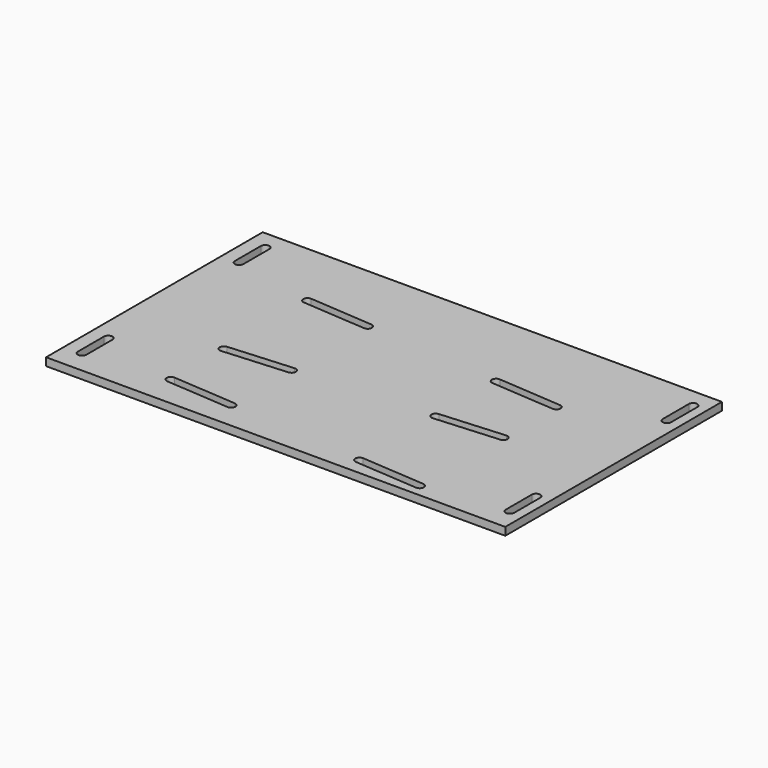
from build123d import *

# Parameters (mm, degrees)
F0_W     = 371.4496
F0_H     = 219.0496
F1_DEPTH = 6.35


with BuildPart() as f1:
    # F0 (on Top) → F1 (new body)
    with BuildSketch(Plane.XY):
        with Locations((185.7248, 109.5248)):
            Rectangle(F0_W, F0_H)
        with BuildLine():
            ThreePointArc((10.8585, 44.958), (14.2875, 48.387), (17.7165, 44.958))
            Line((17.7165, 44.958), (17.7165, 18.542))
            ThreePointArc((17.7165, 18.542), (14.2875, 15.113), (10.8585, 18.542))
            Line((10.8585, 18.542), (10.8585, 44.958))
        make_face(mode=Mode.SUBTRACT)
        with BuildLine():
            ThreePointArc((80.270947, 22.157711), (77.097911, 25.824853), (80.765053, 28.997889))
            Line((80.765053, 28.997889), (132.454053, 25.264089))
            ThreePointArc((132.454053, 25.264089), (134.717497, 24.17969), (135.636, 21.844))
            ThreePointArc((135.636, 21.844), (134.54269, 19.333503), (131.959947, 18.423911))
            Line((131.959947, 18.423911), (80.270947, 22.157711))
        make_face(mode=Mode.SUBTRACT)
        with BuildLine():
            ThreePointArc((80.764888, 75.791984), (77.097899, 78.965197), (80.271112, 82.632185))
            Line((80.271112, 82.632185), (131.960112, 86.36347))
            ThreePointArc((131.960112, 86.36347), (134.542751, 85.45381), (135.636, 82.94337))
            ThreePointArc((135.636, 82.94337), (134.71744, 80.607619), (132.453888, 79.523269))
            Line((132.453888, 79.523269), (80.764888, 75.791984))
        make_face(mode=Mode.SUBTRACT)
        with BuildLine():
            ThreePointArc((242.197619, 10.448191), (239.022791, 14.113781), (242.688381, 17.288609))
            Line((242.688381, 17.288609), (294.377381, 13.580209))
            ThreePointArc((294.377381, 13.580209), (296.641926, 12.496304), (297.561, 10.16))
            ThreePointArc((297.561, 10.16), (296.468304, 7.650074), (293.886619, 6.739791))
            Line((293.886619, 6.739791), (242.197619, 10.448191))
        make_face(mode=Mode.SUBTRACT)
        with BuildLine():
            Line((363.8042, 44.958), (363.8042, 18.542))
            ThreePointArc((363.8042, 18.542), (360.3752, 15.113), (356.9462, 18.542))
            Line((356.9462, 18.542), (356.9462, 44.958))
            ThreePointArc((356.9462, 44.958), (360.3752, 48.387), (363.8042, 44.958))
        make_face(mode=Mode.SUBTRACT)
        with BuildLine():
            ThreePointArc((242.689888, 87.483147), (239.022899, 90.65636), (242.196112, 94.323348))
            Line((242.196112, 94.323348), (293.885112, 98.054633))
            ThreePointArc((293.885112, 98.054633), (296.467751, 97.144973), (297.561, 94.634533))
            ThreePointArc((297.561, 94.634533), (296.64244, 92.298782), (294.378888, 91.214432))
            Line((294.378888, 91.214432), (242.689888, 87.483147))
        make_face(mode=Mode.SUBTRACT)
        with BuildLine():
            ThreePointArc((80.271112, 160.277032), (77.097899, 163.94402), (80.764888, 167.117233))
            Line((80.764888, 167.117233), (132.453888, 163.385948))
            ThreePointArc((132.453888, 163.385948), (134.71744, 162.301598), (135.636, 159.965847))
            ThreePointArc((135.636, 159.965847), (134.542751, 157.455407), (131.960112, 156.545747))
            Line((131.960112, 156.545747), (80.271112, 160.277032))
        make_face(mode=Mode.SUBTRACT)
        with BuildLine():
            ThreePointArc((10.8585, 203.708), (14.2875, 207.137), (17.7165, 203.708))
            Line((17.7165, 203.708), (17.7165, 177.292))
            ThreePointArc((17.7165, 177.292), (14.2875, 173.863), (10.8585, 177.292))
            Line((10.8585, 177.292), (10.8585, 203.708))
        make_face(mode=Mode.SUBTRACT)
        with BuildLine():
            ThreePointArc((242.196112, 148.585869), (239.022899, 152.252857), (242.689888, 155.42607))
            Line((242.689888, 155.42607), (294.378888, 151.694785))
            ThreePointArc((294.378888, 151.694785), (296.64244, 150.610435), (297.561, 148.274684))
            ThreePointArc((297.561, 148.274684), (296.467751, 145.764244), (293.885112, 144.854584))
            Line((293.885112, 144.854584), (242.196112, 148.585869))
        make_face(mode=Mode.SUBTRACT)
        with BuildLine():
            ThreePointArc((356.9462, 203.708), (360.3752, 207.137), (363.8042, 203.708))
            Line((363.8042, 203.708), (363.8042, 177.292))
            ThreePointArc((363.8042, 177.292), (360.3752, 173.863), (356.9462, 177.292))
            Line((356.9462, 177.292), (356.9462, 203.708))
        make_face(mode=Mode.SUBTRACT)
    extrude(amount=F1_DEPTH)


solid = f1.part
